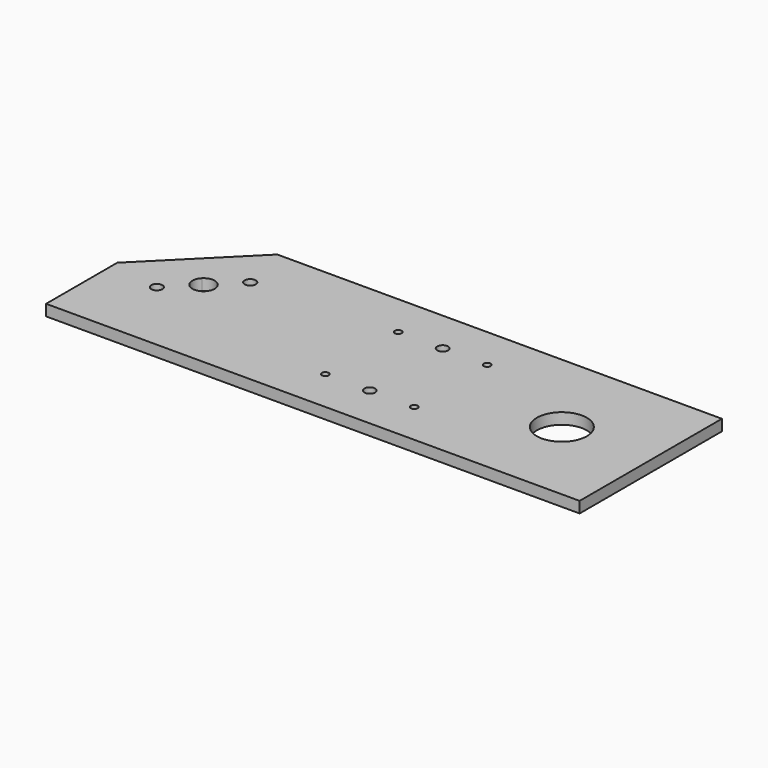
from build123d import *

# Parameters (mm, degrees)
F0_W      = 304.8
F0_H      = 101.6
F1_DEPTH  = 6.35
F3_R      = 14.2875
F4_DEPTH  = 6.35
F5_R      = 3.1115
F9_DEPTH  = 6.35
F6_R      = 3.1115
F10_DEPTH = 6.35
F7_R      = 1.9685
F11_DEPTH = 6.35
F8_R      = 1.9685
F12_DEPTH = 6.35
F15_DEPTH = 6.35
F13_R     = 1.9685
F16_DEPTH = 6.35
F14_R     = 1.9685
F17_DEPTH = 6.35
F18_SIZE  = 50.8
F20_DEPTH = 6.35


with BuildPart() as f1:
    # F0 (on Top) → F1 (new body)
    with BuildSketch(Plane.XY):
        with Locations((79.710026, -8.171286)):
            Rectangle(F0_W, F0_H)
    extrude(amount=F1_DEPTH)

    # F3 (on face) → F4 (cut)
    with BuildSketch(Plane.XY.offset(6.35)):
        with Locations((181.310026, -8.171286)):
            Circle(F3_R)
    extrude(amount=-F4_DEPTH, mode=Mode.SUBTRACT)

    # F5 (on face) → F9 (cut)
    with BuildSketch(Plane.XY.offset(6.35)):
        with Locations((92.410026, 17.863714)):
            Circle(F5_R)
    extrude(amount=-F9_DEPTH, mode=Mode.SUBTRACT)

    # F6 (on face) → F10 (cut)
    with BuildSketch(Plane.XY.offset(6.35)):
        with Locations((92.410026, -34.206286)):
            Circle(F6_R)
    extrude(amount=-F10_DEPTH, mode=Mode.SUBTRACT)

    # F7 (on face) → F11 (cut)
    with BuildSketch(Plane.XY.offset(6.35)):
        with Locations((117.810026, 17.863714)):
            Circle(F7_R)
    extrude(amount=-F11_DEPTH, mode=Mode.SUBTRACT)

    # F8 (on face) → F12 (cut)
    with BuildSketch(Plane.XY.offset(6.35)):
        with Locations((67.010026, 17.863714)):
            Circle(F8_R)
    extrude(amount=-F12_DEPTH, mode=Mode.SUBTRACT)

    # F6 (on face) → F15 (cut)
    with BuildSketch(Plane.XY.offset(6.35)):
        with Locations((92.410026, -34.206286)):
            Circle(F6_R)
    extrude(amount=-F15_DEPTH, mode=Mode.SUBTRACT)

    # F13 (on face) → F16 (cut)
    with BuildSketch(Plane.XY.offset(6.35)):
        with Locations((67.010026, -34.206286)):
            Circle(F13_R)
    extrude(amount=-F16_DEPTH, mode=Mode.SUBTRACT)

    # F14 (on face) → F17 (cut)
    with BuildSketch(Plane.XY.offset(6.35)):
        with Locations((117.810026, -34.206286)):
            Circle(F14_R)
    extrude(amount=-F17_DEPTH, mode=Mode.SUBTRACT)

    # F18
    f18_edges = [f1.edges().sort_by_distance(p)[0] for p in [
        (-72.689974, 42.628714, 3.175),
    ]]
    chamfer(f18_edges, length=F18_SIZE)

    # F19 (on face) → F20 (cut)
    with BuildSketch(Plane(origin=(0, 0, 0), x_dir=(1, 0, 0), z_dir=(0, 0, -1))):
        with BuildLine():
            Line((-33.819589, 5.221926), (-29.329461, 0.731798))
            Line((-29.329461, 0.731798), (-24.839333, 5.221926))
            ThreePointArc((-24.839333, 5.221926), (-29.329461, 7.081798), (-33.819589, 5.221926))
        make_face()
        with BuildLine():
            Line((-24.839333, 5.221926), (-29.329461, 0.731798))
            Line((-29.329461, 0.731798), (-24.839333, -3.75833))
            ThreePointArc((-24.839333, -3.75833), (-23.462826, -1.698242), (-22.979461, 0.731798))
            ThreePointArc((-22.979461, 0.731798), (-23.462826, 3.161838), (-24.839333, 5.221926))
        make_face()
        with BuildLine():
            Line((-29.329461, 0.731798), (-33.819589, -3.75833))
            ThreePointArc((-33.819589, -3.75833), (-29.329461, -5.618202), (-24.839333, -3.75833))
            Line((-24.839333, -3.75833), (-29.329461, 0.731798))
        make_face()
        with BuildLine():
            ThreePointArc((-11.337039, -14.085625), (-13.297019, -11.152307), (-16.757103, -11.840561))
            ThreePointArc((-16.757103, -11.840561), (-15.727059, -17.018942), (-11.337039, -14.085625))
        make_face()
        with BuildLine():
            ThreePointArc((-40.971884, 15.549221), (-47.080201, 16.76424), (-41.90182, 13.304157))
            ThreePointArc((-41.90182, 13.304157), (-41.213566, 14.334201), (-40.971884, 15.549221))
        make_face()
        with BuildLine():
            ThreePointArc((-33.819589, 5.221926), (-35.679461, 0.731798), (-33.819589, -3.75833))
            Line((-33.819589, -3.75833), (-29.329461, 0.731798))
            Line((-29.329461, 0.731798), (-33.819589, 5.221926))
        make_face()
    extrude(amount=-F20_DEPTH, mode=Mode.SUBTRACT)


solid = f1.part
